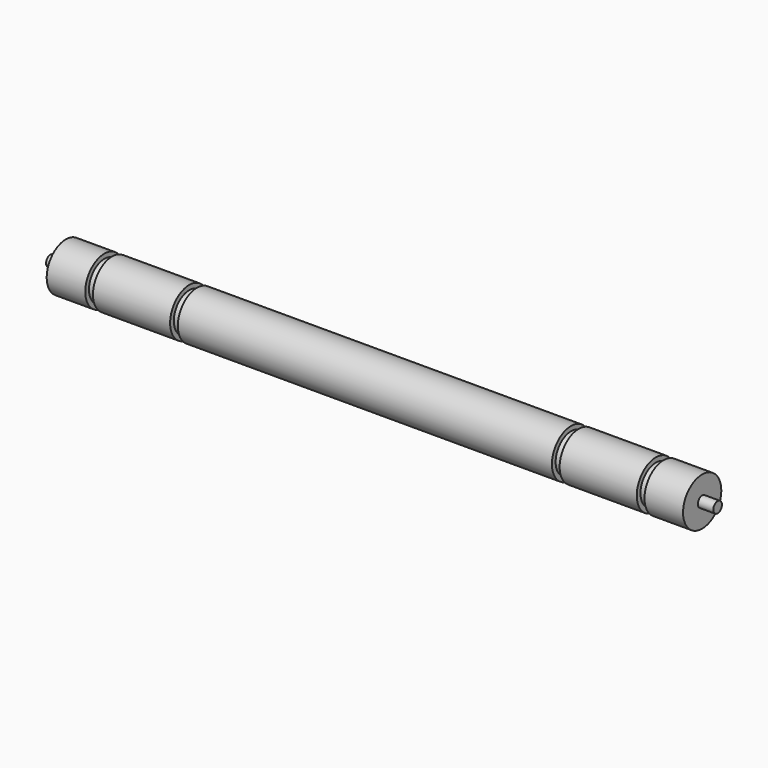
from build123d import *


with BuildPart() as f1:
    # F0 (on Front) → F1 (revolve)
    with BuildSketch(Plane.XZ):
        Polygon((0, 6.2), (0, 0), (86.5, 0), (86.5, 1.4), (82.5, 1.4), (82.5, 6.2), (72.5, 6.2), (72.5, 5), (70.5, 5), (70.5, 6.2), (50.5, 6.2), (50.5, 5), (48.5, 5), (48.5, 6.2), align=None)
    revolve(axis=Axis((43.25, 0, 0), (1, 0, 0)))

    # F2: F1 across face


with BuildPart() as f1_1:
    add(f1.part)
    add(f1.part.mirror(Plane(origin=(0, 0, 0), x_dir=(0, -1, 0), z_dir=(-1, 0, 0))))


solid = f1_1.part
